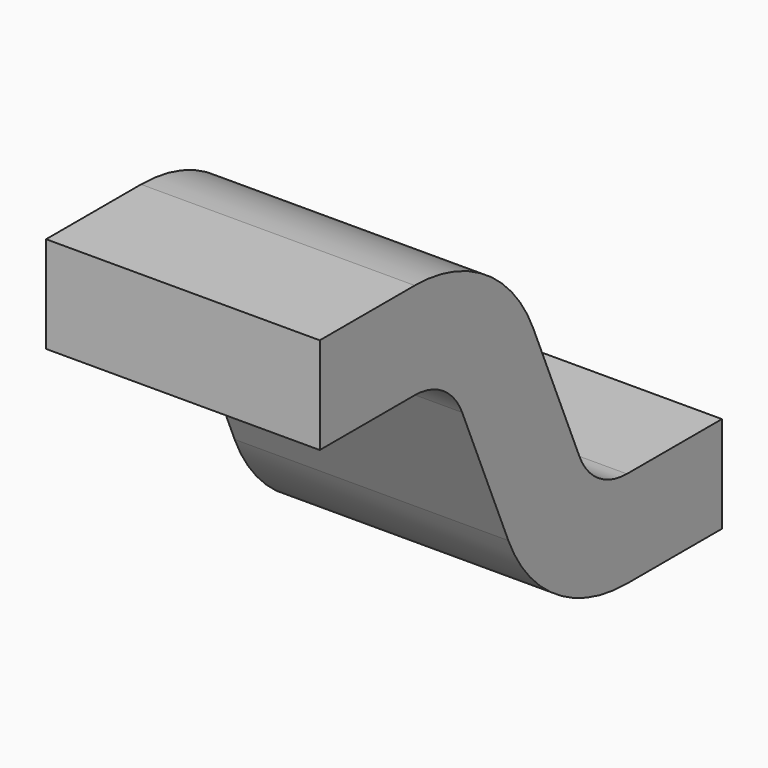
from build123d import *

# Parameters (mm, degrees)
PAD001_DEPTH            = 0.2125
FILLET_R                = 0.1
FILLET001_R             = 0.25
BODY001_PLACEMENT_ANGLE = 180


with BuildPart() as part:
    # Sketch001 → Pad001 (new body, symmetric)
    with BuildSketch(Plane.YZ):
        Polygon((-0.469369, 0.425), (-0.72, 0.425), (-0.9, 0), (-1.25, 0), (-1.25, 0.15), (-0.999369, 0.15), (-0.819369, 0.575), (-0.469369, 0.575), align=None)
    extrude(amount=PAD001_DEPTH, both=True)

    # Fillet
    fillet_edges = [part.edges().sort_by_distance(p)[0] for p in [
        (0, -0.999369, 0.15),
        (0, -0.72, 0.425),
    ]]
    fillet(fillet_edges, radius=FILLET_R)

    # Fillet001
    fillet001_edges = [part.edges().sort_by_distance(p)[0] for p in [
        (0, -0.9, 0),
        (0, -0.819369, 0.575),
    ]]
    fillet(fillet001_edges, radius=FILLET001_R)


with BuildPart() as part_1:
    # Body001 placement: moved
    add(part.part.rotate(Axis((0, 0, 0), (0, 0, 1)), BODY001_PLACEMENT_ANGLE))


solid = part_1.part
